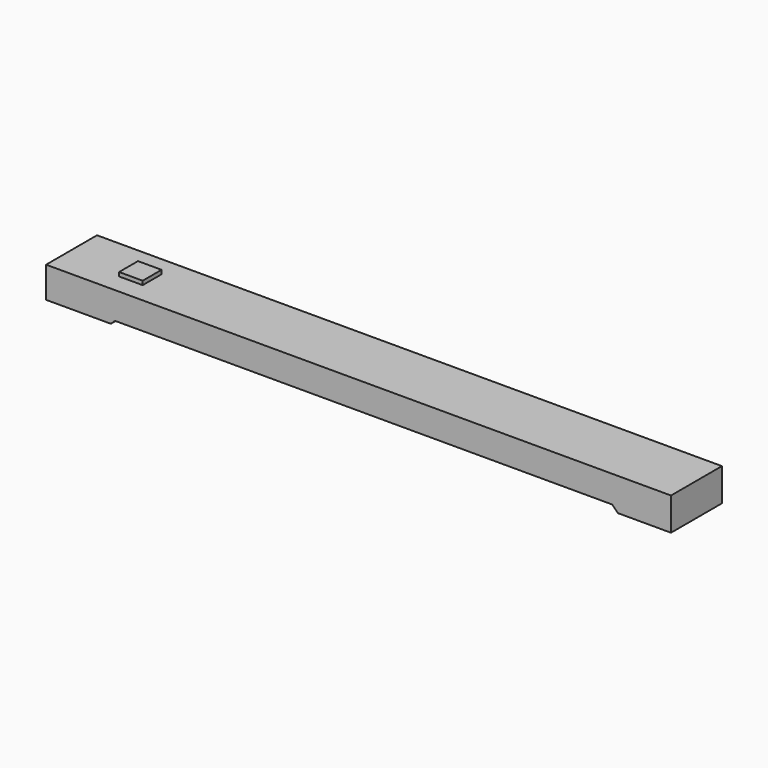
from build123d import *

# Parameters (mm, degrees)
SKETCH048_W      = 300
SKETCH048_H      = 50
EXTRUDE043_DEPTH = 150
EXTRUDE033_DEPTH = 405


with BuildPart() as extrude043:
    # Sketch048 → Extrude043 (new body, symmetric)
    with BuildSketch(Plane.XZ):
        with Locations((350, 330)):
            Rectangle(SKETCH048_W, SKETCH048_H)
    extrude(amount=EXTRUDE043_DEPTH, both=True)


with BuildPart() as fusion024:
    # Sketch036 → Extrude033 (new body, symmetric)
    with BuildSketch(Plane.XZ):
        Polygon((-525, -89), (-525, 305), (7425, 305), (7425, -112), (6750, -112), (6677, -39), (349.996537, -39), (299.996537, -89), align=None)
    extrude(amount=EXTRUDE033_DEPTH, both=True)

    # Fusion024: union Extrude043
    add(extrude043.part)


solid = fusion024.part
